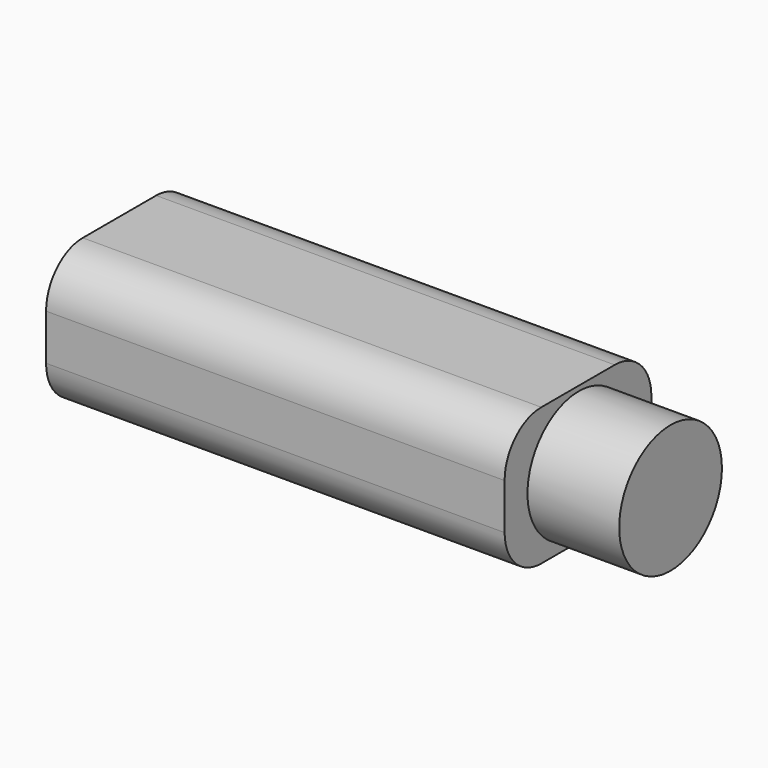
from build123d import *

# Parameters (mm, degrees)
F0_W     = 50.8
F0_H     = 38.1
F1_DEPTH = 127
F2_R     = 12.7
F3_R     = 12.7
F4_DEPTH = 25.4
F5_R     = 17.78
F6_DEPTH = 25.4


with BuildPart() as f1:
    # F0 (on Right) → F1 (new body)
    with BuildSketch(Plane.YZ):
        with Locations((-22.797512, 19.314706)):
            Rectangle(F0_W, F0_H)
    extrude(amount=F1_DEPTH)

    # F2
    f2_edges = [f1.edges().sort_by_distance(p)[0] for p in [
        (63.5, -48.197512, 38.364706),
        (63.5, 2.602488, 38.364706),
        (63.5, -48.197512, 0.264706),
        (63.5, 2.602488, 0.264706),
    ]]
    fillet(f2_edges, radius=F2_R)

    # F3 (on face) → F4 (cut)
    with BuildSketch(Plane(origin=(0, 0, 0.264706), x_dir=(1, 0, 0), z_dir=(0, 0, -1))):
        with Locations((92.420697, 22.85873)):
            Circle(F3_R)
    extrude(amount=-F4_DEPTH, mode=Mode.SUBTRACT)

    # F5 (on face) → F6 (join)
    with BuildSketch(Plane.YZ.offset(127)):
        with Locations((-22.503506, 19.241814)):
            Circle(F5_R)
    extrude(amount=F6_DEPTH)


solid = f1.part
